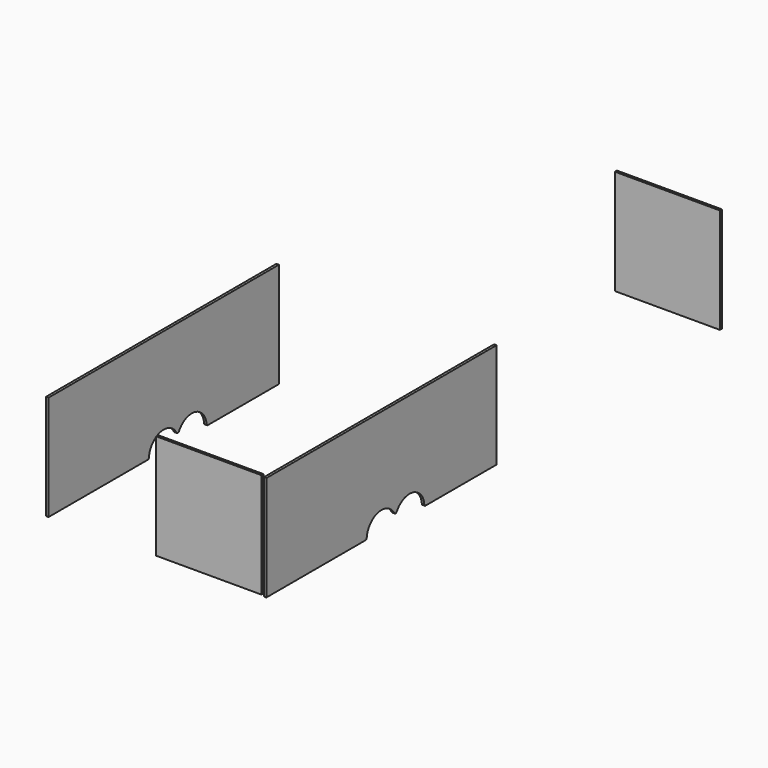
from build123d import *

# Parameters (mm, degrees)
F1_DEPTH = 50
F2_W     = 2100
F2_H     = 2100
F3_DEPTH = 50


with BuildPart() as f1:
    # F0 (on Right) → F1 (new body)
    with BuildSketch(Plane.YZ):
        with BuildLine():
            Line((1086.307005, -1465.717785), (2865.342966, -1465.717785))
            Line((2865.342966, -1465.717785), (2865.342966, 634.282215))
            Line((2865.342966, 634.282215), (-2884.657034, 634.282215))
            Line((-2884.657034, 634.282215), (-2884.657034, -1465.717785))
            Line((-2884.657034, -1465.717785), (-404.926433, -1465.717785))
            ThreePointArc((-404.926433, -1465.717785), (-387.090337, -1458.671957), (-378.884713, -1441.338816))
            ThreePointArc((-378.884713, -1441.338816), (-93.378544, -1105.281769), (311.022482, -1281.08826))
            ThreePointArc((311.022482, -1281.08826), (340.690286, -1298.240817), (370.358091, -1281.08826))
            ThreePointArc((370.358091, -1281.08826), (774.759116, -1105.281769), (1060.265285, -1441.338816))
            ThreePointArc((1060.265285, -1441.338816), (1068.470909, -1458.671957), (1086.307005, -1465.717785))
        make_face()
    extrude(amount=-F1_DEPTH)


with BuildPart() as f3:
    # F2 (on face) → F3 (new body)
    with BuildSketch(Plane.XZ.offset(2884.657034)):
        with Locations((-1150, -396.947932)):
            Rectangle(F2_W, F2_H)
    extrude(amount=-F3_DEPTH)


with BuildPart() as f4_1:
    # F4: instance of F1
    add(f1.part.mirror(Plane(origin=(-2200, -2859.657034, -396.947932), x_dir=(0, -1, 0), z_dir=(-1, 0, 0))))


with BuildPart() as f5_1:
    # F5: instance of F3
    add(f3.part.mirror(Plane(origin=(-25, 2865.342966, -415.717785), x_dir=(-1, 0, 0), z_dir=(0, 1, 0))))


solid = Compound([f1.part, f3.part, f4_1.part, f5_1.part])
